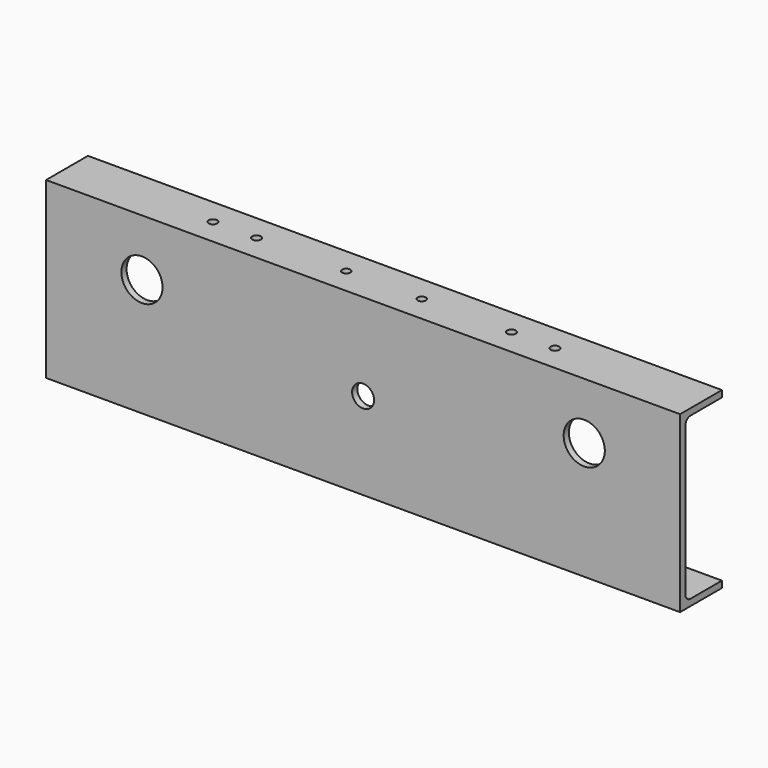
from build123d import *

# Parameters (mm, degrees)
F1_DEPTH = 923.925
F3_D     = 12.7
F3_DEPTH = 30
F5_D     = 60
F5_DEPTH = 30
F6_D     = 32
F6_DEPTH = 30
F7_D     = 12
F7_DEPTH = 30


with BuildPart() as f1:
    # F0 (on Right) → F1 (new body)
    with BuildSketch(Plane.YZ):
        with BuildLine():
            Line((-26.569311, 131.535714), (-26.569311, -122.464286))
            Line((-26.569311, -122.464286), (49.630689, -122.464286))
            Line((49.630689, -122.464286), (49.630689, -112.939286))
            Line((49.630689, -112.939286), (-7.519311, -112.939286))
            ThreePointArc((-7.519311, -112.939286), (-14.254503, -110.149478), (-17.044311, -103.414286))
            Line((-17.044311, -103.414286), (-17.044311, 112.485714))
            ThreePointArc((-17.044311, 112.485714), (-14.254503, 119.220906), (-7.519311, 122.010714))
            Line((-7.519311, 122.010714), (49.630689, 122.010714))
            Line((49.630689, 122.010714), (49.630689, 131.535714))
            Line((49.630689, 131.535714), (-26.569311, 131.535714))
        make_face()
    extrude(amount=F1_DEPTH)

    # F3
    with Locations(Plane.XY.offset(131.535714)):
        with Locations((212.725, 11.530689), (276.225, 11.530689), (647.7, 11.530689), (711.2, 11.530689)):
            Hole(F3_D / 2, depth=F3_DEPTH)

    # F5
    with Locations(Plane.XZ.offset(26.569311)):
        with Locations((139.7, 48.985714), (784.225, 48.985714)):
            Hole(F5_D / 2, depth=F5_DEPTH)

    # F6
    with Locations(Plane.XZ.offset(26.569311)):
        with Locations((461.9625, 4.535714)):
            Hole(F6_D / 2, depth=F6_DEPTH)

    # F7
    with Locations(Plane.XY.offset(131.535714)):
        with Locations((406.9625, 11.530689), (516.9625, 11.530689)):
            Hole(F7_D / 2, depth=F7_DEPTH)


solid = f1.part
